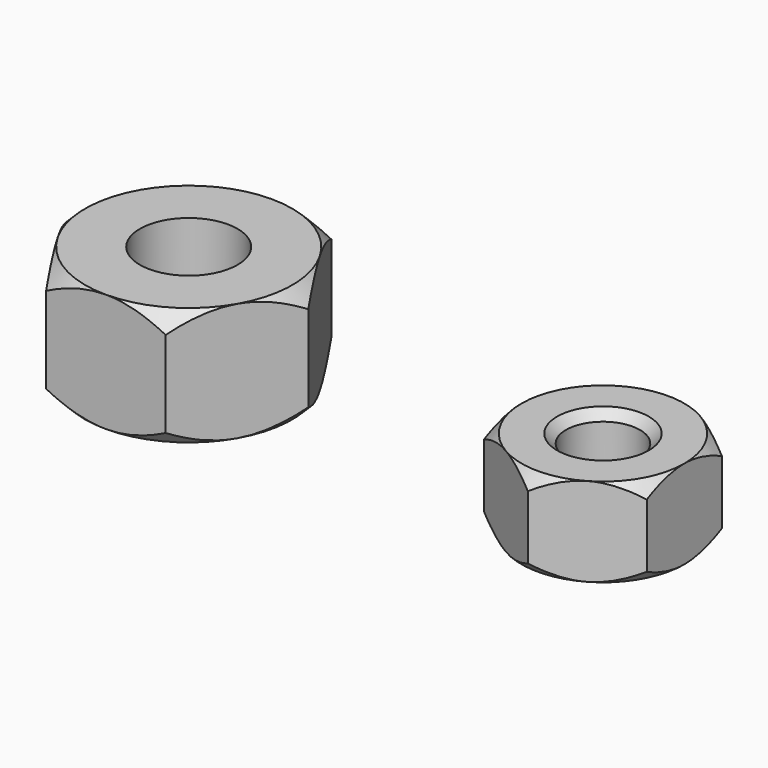
from build123d import *

# Parameters (mm, degrees)
F0_R     = 1.25
F1_DEPTH = 3
F2_SIZE  = 0.3
F6_R     = 1.65
F7_DEPTH = 4


with BuildPart() as f1:
    # F0 (on Top) → F1 (new body)
    with BuildSketch(Plane.XY):
        Polygon((2.75, -1.587713), (2.75, 1.587713), (0, 3.175426), (-2.75, 1.587713), (-2.75, -1.587713), (0, -3.175426), align=None)
        Circle(F0_R, mode=Mode.SUBTRACT)
    extrude(amount=F1_DEPTH)

    # F2
    f2_edges = [f1.edges().sort_by_distance(p)[0] for p in [
        (-1.25, 0, 3),
        (-1.25, 0, 0),
    ]]
    chamfer(f2_edges, length=F2_SIZE)

    # F3 (on Right) → F4 (revolve, cut)
    with BuildSketch(Plane.YZ):
        Polygon((3.975426, 3), (2.75, 3), (3.175426, 2.574574), (3.175426, 0.425426), (2.75, 0), (3.975426, 0), align=None)
    revolve(axis=Axis((0, 0, 2.141631), (0, 0, 1)), mode=Mode.SUBTRACT)


with BuildPart() as f1_1:
    # F5: moved
    add(f1.part.moved(Location((32.8, 0, 0))))


with BuildPart() as f7:
    # F6 (on Top) → F7 (new body)
    with BuildSketch(Plane.XY):
        Polygon((2.020726, -3.5), (4.041452, 0), (2.020726, 3.5), (-2.020726, 3.5), (-4.041452, 0), (-2.020726, -3.5), align=None)
        Circle(F6_R, mode=Mode.SUBTRACT)
    extrude(amount=F7_DEPTH)

    # F8 (on Front) → F9 (revolve, cut)
    with BuildSketch(Plane.XZ):
        Polygon((5.041452, 4), (3.5, 4), (4.041452, 3.458548), (4.041452, 0.541452), (3.5, 0), (5.041452, 0), align=None)
    revolve(axis=Axis((0, 0, 0), (0, 0, -1)), mode=Mode.SUBTRACT)


with BuildPart() as f1_2:
    # F10: moved
    add(f1_1.part.moved(Location((27, 0, 0))))


with BuildPart() as f7_1:
    # F11: moved
    add(f7.part.moved(Location((45.8, 0, 0))))


solid = Compound([f1_2.part, f7_1.part])
